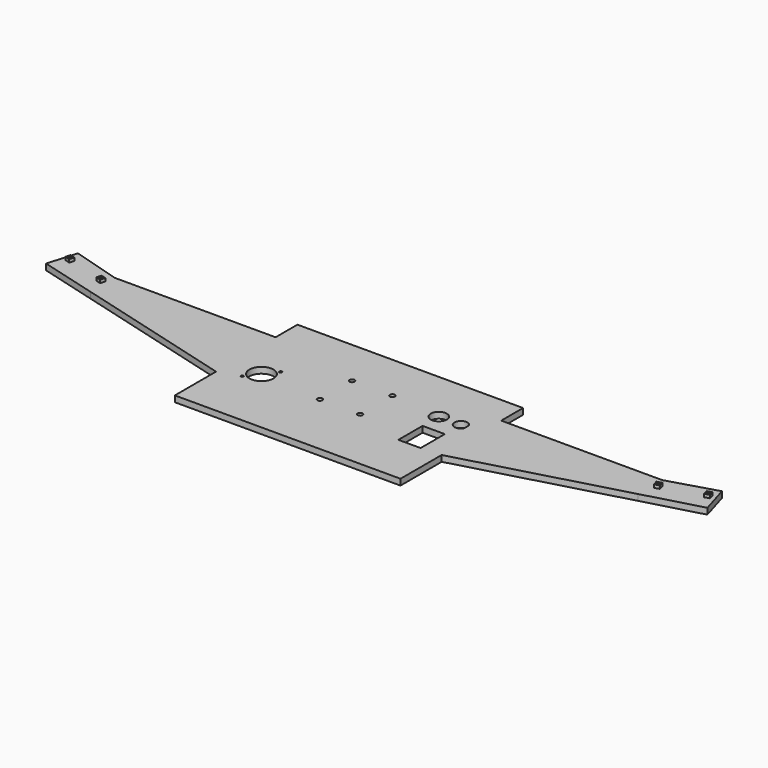
from build123d import *

# Parameters (mm, degrees)
F1_DEPTH  = 6
F3_R      = 2.5
F4_DEPTH  = 25
F5_W      = 22.1
F5_H      = 30
F6_DEPTH  = 25
F7_R      = 8
F7_R_2    = 12
F7_R_3    = 1.25
F8_DEPTH  = 25
F9_R      = 1
F10_DEPTH = 3
F11_R     = 1
F12_DEPTH = 3


with BuildPart() as f1:
    # F0 (on Top) → F1 (new body)
    with BuildSketch(Plane.XY):
        Polygon((0, -73.897189), (0, -125), (224, -125), (224, -73.897189), (383.758505, -30), (440.241495, -14.480047), (431.678371, 14.271873), (383.758505, 0), (224, 0), (224, 27.111), (0, 27.111), (0, 0), (-159.758505, 0), (-207.678371, 14.271873), (-216.241495, -14.480047), (-159.758505, -30), align=None)
    extrude(amount=F1_DEPTH)

    # F3 (on face) → F4 (cut)
    with BuildSketch(Plane(origin=(0, 0, 0), x_dir=(1, 0, 0), z_dir=(0, 0, -1))):
        with Locations((132, 60)):
            Circle(F3_R)
        with Locations((132, 20)):
            Circle(F3_R)
        with Locations((92, 60)):
            Circle(F3_R)
        with Locations((92, 20)):
            Circle(F3_R)
    extrude(amount=-F4_DEPTH, mode=Mode.SUBTRACT)

    # F5 (on face) → F6 (cut)
    with BuildSketch(Plane(origin=(0, 0, 0), x_dir=(1, 0, 0), z_dir=(0, 0, -1))):
        with Locations((192.95, 60)):
            Rectangle(F5_W, F5_H)
    extrude(amount=-F6_DEPTH, mode=Mode.SUBTRACT)

    # F7 (on face) → F8 (cut)
    with BuildSketch(Plane(origin=(0, 0, 0), x_dir=(1, 0, 0), z_dir=(0, 0, -1))):
        with BuildLine():
            Line((209.65, 22.101725), (209.65, 27.898275))
            ThreePointArc((209.65, 27.898275), (197.65, 25), (209.65, 22.101725))
        make_face()
        with Locations((182, 25)):
            Circle(F7_R)
        with Locations((30, 55)):
            Circle(F7_R_2)
        with Locations((20.5, 67)):
            Circle(F7_R_3)
        with Locations((39.5, 43)):
            Circle(F7_R_3)
    extrude(amount=-F8_DEPTH, mode=Mode.SUBTRACT)

    # F9 (on face) → F10 (join)
    with BuildSketch(Plane.XY.offset(6)):
        Polygon((430.556438, 4.025349), (425.764451, 2.598162), (427.191639, -2.193825), (431.983625, -0.766638), align=None)
        with Locations((428.874038, 0.915762)):
            Circle(F9_R, mode=Mode.SUBTRACT)
        Polygon((390.30375, -7.963025), (385.511763, -9.390212), (386.938951, -14.182199), (391.730937, -12.755011), align=None)
        with Locations((388.62135, -11.072612)):
            Circle(F9_R, mode=Mode.SUBTRACT)
    extrude(amount=F10_DEPTH)

    # F11 (on face) → F12 (join)
    with BuildSketch(Plane.XY.offset(6)):
        Polygon((-203.191639, -2.193825), (-201.764451, 2.598162), (-206.556438, 4.025349), (-207.983625, -0.766638), align=None)
        with Locations((-204.874038, 0.915762)):
            Circle(F11_R, mode=Mode.SUBTRACT)
        Polygon((-162.938951, -14.182199), (-161.511763, -9.390212), (-166.30375, -7.963025), (-167.730937, -12.755011), align=None)
        with Locations((-164.62135, -11.072612)):
            Circle(F11_R, mode=Mode.SUBTRACT)
    extrude(amount=F12_DEPTH)


solid = f1.part
